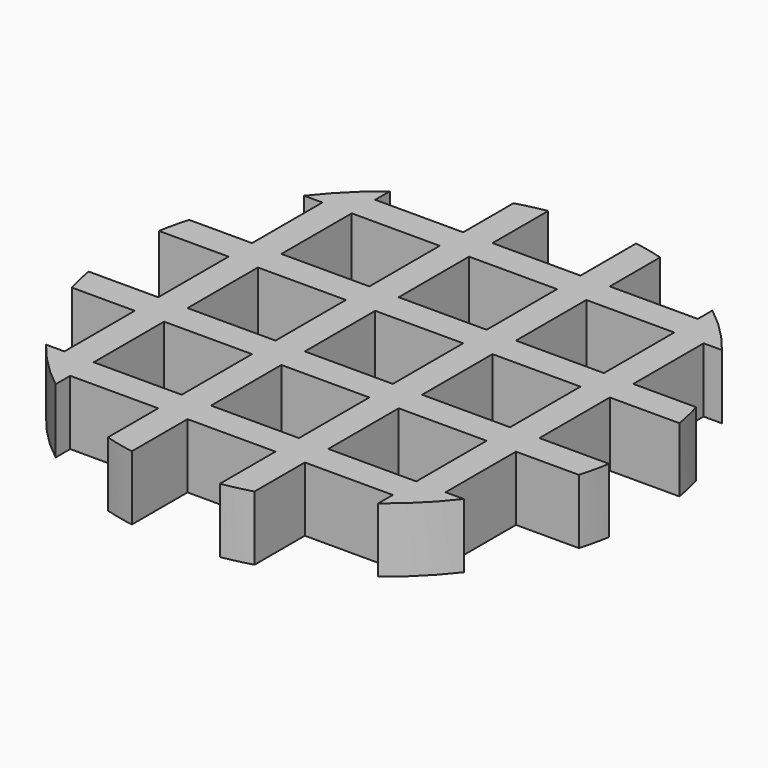
from build123d import *

# Parameters (mm, degrees)
F0_W     = 3
F0_H     = 3
F1_DEPTH = 2.2


with BuildPart() as f1:
    # F0 (on Top) → F1 (new body)
    with BuildSketch(Plane.XY):
        with BuildLine():
            Line((1, 3), (4, 3))
            Line((4, 3), (4, 0.854192))
            ThreePointArc((4, 0.854192), (4.496745, 0.725778), (5, 0.62588))
            Line((5, 0.62588), (5, 3))
            Line((5, 3), (8, 3))
            Line((8, 3), (8, 0.62588))
            ThreePointArc((8, 0.62588), (8.503255, 0.725778), (9, 0.854192))
            Line((9, 0.854192), (9, 3))
            Line((9, 3), (12, 3))
            Line((12, 3), (12, 2.376097))
            ThreePointArc((12, 2.376097), (12.863961, 3.136039), (13.623903, 4))
            Line((13.623903, 4), (13, 4))
            Line((13, 4), (13, 7))
            Line((13, 7), (15.145808, 7))
            ThreePointArc((15.145808, 7), (15.274222, 7.496745), (15.37412, 8))
            Line((15.37412, 8), (13, 8))
            Line((13, 8), (13, 11))
            Line((13, 11), (15.37412, 11))
            ThreePointArc((15.37412, 11), (15.274222, 11.503255), (15.145808, 12))
            Line((15.145808, 12), (13, 12))
            Line((13, 12), (13, 15))
            Line((13, 15), (13.623903, 15))
            ThreePointArc((13.623903, 15), (12.863961, 15.863961), (12, 16.623903))
            Line((12, 16.623903), (12, 16))
            Line((12, 16), (9, 16))
            Line((9, 16), (9, 18.145808))
            ThreePointArc((9, 18.145808), (8.503255, 18.274222), (8, 18.37412))
            Line((8, 18.37412), (8, 16))
            Line((8, 16), (5, 16))
            Line((5, 16), (5, 18.37412))
            ThreePointArc((5, 18.37412), (4.496745, 18.274222), (4, 18.145808))
            Line((4, 18.145808), (4, 16))
            Line((4, 16), (1, 16))
            Line((1, 16), (1, 16.623903))
            ThreePointArc((1, 16.623903), (0.136039, 15.863961), (-0.623903, 15))
            Line((-0.623903, 15), (0, 15))
            Line((0, 15), (0, 12))
            Line((0, 12), (-2.145808, 12))
            ThreePointArc((-2.145808, 12), (-2.274222, 11.503255), (-2.37412, 11))
            Line((-2.37412, 11), (0, 11))
            Line((0, 11), (0, 8))
            Line((0, 8), (-2.37412, 8))
            ThreePointArc((-2.37412, 8), (-2.274222, 7.496745), (-2.145808, 7))
            Line((-2.145808, 7), (0, 7))
            Line((0, 7), (0, 4))
            Line((0, 4), (-0.623903, 4))
            ThreePointArc((-0.623903, 4), (0.136039, 3.136039), (1, 2.376097))
            Line((1, 2.376097), (1, 3))
        make_face()
        with Locations((2.5, 5.5)):
            Rectangle(F0_W, F0_H, mode=Mode.SUBTRACT)
        with Locations((6.5, 5.5)):
            Rectangle(F0_W, F0_H, mode=Mode.SUBTRACT)
        with Locations((10.5, 5.5)):
            Rectangle(F0_W, F0_H, mode=Mode.SUBTRACT)
        with Locations((2.5, 9.5)):
            Rectangle(F0_W, F0_H, mode=Mode.SUBTRACT)
        with Locations((2.5, 13.5)):
            Rectangle(F0_W, F0_H, mode=Mode.SUBTRACT)
        with Locations((6.5, 9.5)):
            Rectangle(F0_W, F0_H, mode=Mode.SUBTRACT)
        with Locations((10.5, 9.5)):
            Rectangle(F0_W, F0_H, mode=Mode.SUBTRACT)
        with Locations((6.5, 13.5)):
            Rectangle(F0_W, F0_H, mode=Mode.SUBTRACT)
        with Locations((10.5, 13.5)):
            Rectangle(F0_W, F0_H, mode=Mode.SUBTRACT)
    extrude(amount=F1_DEPTH)


solid = f1.part
